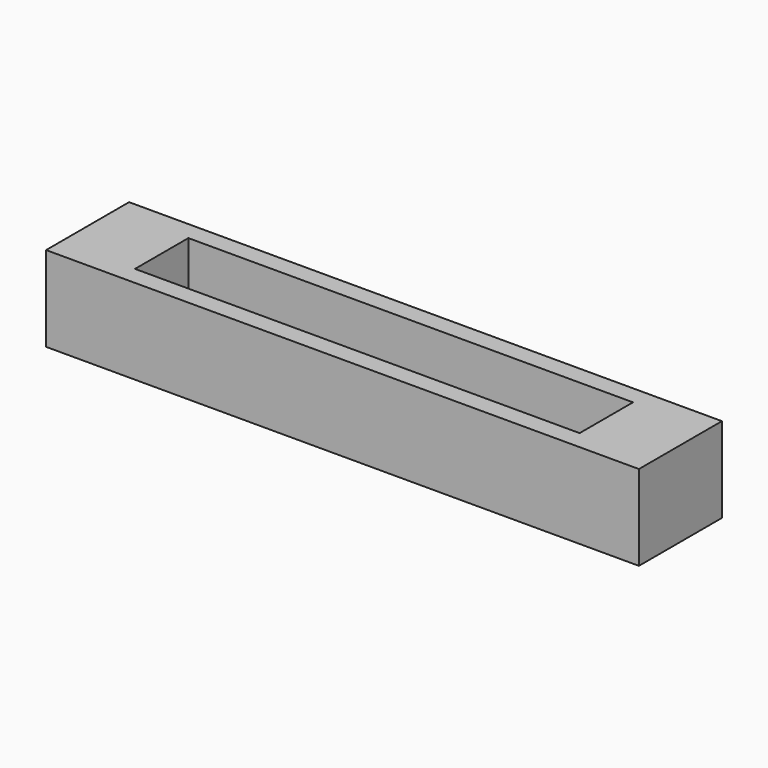
from build123d import *

# Parameters (mm, degrees)
F0_W     = 98
F0_H     = 5
F0_H_2   = 18
F0_W_2   = 11
F1_DEPTH = 3
F2_DEPTH = 23


with BuildPart() as f1:
    # F0 (on Top) → F1 (new body)
    with BuildSketch(Plane.XY):
        Polygon((-80, -14), (-49, -14), (-49, -9), (-60, -9), (-60, 9), (-49, 9), (-49, 14), (-80, 14), align=None)
        with Locations((0, 11.5)):
            Rectangle(F0_W, F0_H)
        Rectangle(F0_W, F0_H_2)
        with Locations((-54.5, 0)):
            Rectangle(F0_W_2, F0_H_2)
        with Locations((0, -11.5)):
            Rectangle(F0_W, F0_H)
        Polygon((49, -14), (80, -14), (80, 14), (49, 14), (49, 9), (60, 9), (60, -9), (49, -9), align=None)
        with Locations((54.5, 0)):
            Rectangle(F0_W_2, F0_H_2)
    extrude(amount=F1_DEPTH)

    # F0 (on Top) → F2 (join)
    with BuildSketch(Plane.XY):
        Polygon((-80, -14), (-49, -14), (-49, -9), (-60, -9), (-60, 9), (-49, 9), (-49, 14), (-80, 14), align=None)
        with Locations((0, 11.5)):
            Rectangle(F0_W, F0_H)
        with Locations((0, -11.5)):
            Rectangle(F0_W, F0_H)
        Polygon((49, -14), (80, -14), (80, 14), (49, 14), (49, 9), (60, 9), (60, -9), (49, -9), align=None)
    extrude(amount=F2_DEPTH)


solid = f1.part
